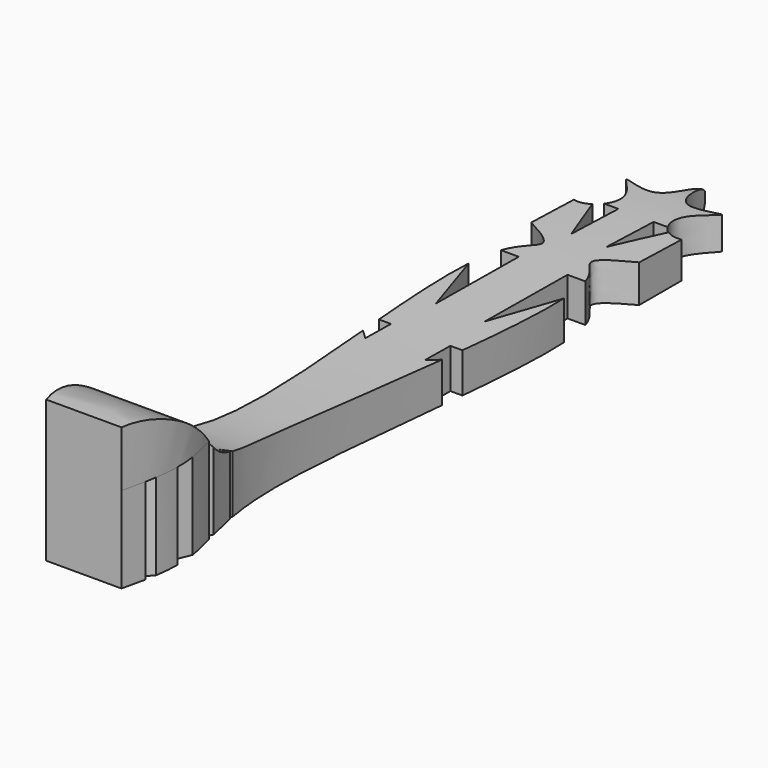
from build123d import *

# Parameters (mm, degrees)
F1_DEPTH = 19.05
F3_DEPTH = 38.101
F5_DEPTH = 1828.8
F7_DEPTH = 30.4317795835


with BuildPart() as f1:
    # F0 (on Right) → F1 (new body, symmetric)
    with BuildSketch(Plane.YZ):
        Polygon((178.5913199186, -10.4307794835), (-121.4086800814, 33.5692205165), (-121.4086800814, -30.4307794835), (178.5913199186, -30.4307794835), align=None)
    extrude(amount=F1_DEPTH, both=True)

    # F2 (on face) → F3 (cut, through all)
    with BuildSketch(Plane.YZ.offset(19.05)):
        with BuildLine():
            Line((178.5913199186, -30.4307794835), (151.3292193413, -30.4307794835))
            add(Edge.make_bspline(
                [(-121.4086800814, 19.6494460106), (-128.8300884765, 19.0267810032), (-141.2069322009, 11.9924256564), (-156.2329333584, 23.8123836314), (-140.0198941638, 146.4879396447), (350.3155047747, 92.1479607158), (129.148871018, -114.6061696375), (147.3654680434, -42.0453164757), (151.3292193413, -30.4307794835)],
                knots=[0.3755945122, 0.3755945122, 0.3755945122, 0.3755945122, 0.4284147605, 0.4689040331, 0.574577395, 0.7912050142, 0.9245243763, 1, 1, 1, 1], degree=3))
            Line((-121.4086800814, 19.6494460106), (-121.4086800814, 33.5692205165))
            Line((-121.4086800814, 33.5692205165), (178.5913199186, -10.4307794835))
            Line((178.5913199186, -10.4307794835), (178.5913199186, -30.4307794835))
        make_face()
        with BuildLine():
            add(Edge.make_bspline(
                [(151.3292193413, -30.4307794835), (153.2220690919, -24.8843736175), (160.64754968, -12.1928460221), (-67.6128940399, -21.9216893591), (-81.6540406852, -1.0579173524), (-96.8134756508, 13.8986638693), (-113.1806687792, 20.339785963), (-121.4086800814, 19.6494460106)],
                knots=[0, 0, 0, 0, 0.0360426285, 0.2066518864, 0.2659077685, 0.3170334444, 0.3755945122, 0.3755945122, 0.3755945122, 0.3755945122], degree=3))
            Line((151.3292193413, -30.4307794835), (178.5913199186, -30.4307794835))
            Line((178.5913199186, -30.4307794835), (178.5913199186, -10.4307794835))
            Line((178.5913199186, -10.4307794835), (-121.4086800814, 33.5692205165))
            Line((-121.4086800814, 33.5692205165), (-121.4086800814, 19.6494460106))
        make_face()
    extrude(amount=-F3_DEPTH, mode=Mode.SUBTRACT)

    # F4 (on Top) → F5 (cut, symmetric)
    with BuildSketch(Plane.XY):
        with BuildLine():
            add(Edge.make_bspline(
                [(12.4821066856, -124.74809587), (14.8633212575, -115.1394166797), (20.2356663085, -93.4609111828), (-0.8756140755, -56.0853990425), (26.6384219853, 82.1301651372), (3.1433208526, 91.8284494628), (16.8151619194, 98.7507867317), (24.3913829327, 102.5868430734)],
                knots=[0, 0, 0, 0, 0.1699878793, 0.3835162284, 0.7508443052, 0.8619296891, 1, 1, 1, 1], degree=3))
            Line((12.4821066856, -124.74809587), (0, -124.74809587))
            Line((0, -124.74809587), (43.3733165264, -140.8880054951))
            Line((43.3733165264, -140.8880054951), (74.8189985752, 175.46620965))
            Line((74.8189985752, 175.46620965), (-70.7527399063, 175.46620965))
            Line((-70.7527399063, 175.46620965), (-70.7527399063, -122.454315424))
            Line((-70.7527399063, -122.454315424), (-18.7047421932, -143.0566608906))
            Line((-18.7047421932, -143.0566608906), (-12.4821066856, -124.74809587))
            add(Edge.make_bspline(
                [(-12.4821066856, -124.74809587), (-14.8633212575, -115.1394166797), (-20.2356663085, -93.4609111828), (0.8756140755, -56.0853990425), (-26.6384219853, 82.1301651372), (-3.1433208526, 91.8284494628), (-16.8151619194, 98.7507867317), (-24.3913829327, 102.5868430734)],
                knots=[0, 0, 0, 0, 0.1699878793, 0.3835162284, 0.7508443052, 0.8619296891, 1, 1, 1, 1], degree=3))
            add(Edge.make_bspline(
                [(-24.3913829327, 102.5868430734), (-37.1198662092, 99.8323444151), (-62.1212241492, 94.4219427639), (-37.0471217752, 132.5325202436), (-16.9894556094, 112.3771299598), (-5.1584713459, 129.3074572708), (-22.7724406539, 142.8175921293), (-2.991625484, 132.9240861719), (-1.0779505714, 145.6183171696), (0, 152.7691185474)],
                knots=[0, 0, 0, 0, 0.1795188335, 0.3526119075, 0.5076586312, 0.6301526095, 0.7497035252, 0.8590046031, 1, 1, 1, 1], degree=3))
            add(Edge.make_bspline(
                [(24.3913829327, 102.5868430734), (37.1198662092, 99.8323444151), (62.1212241492, 94.4219427639), (37.0471217752, 132.5325202436), (16.9894556094, 112.3771299598), (5.1584713459, 129.3074572708), (22.7724406539, 142.8175921293), (2.991625484, 132.9240861719), (1.0779505714, 145.6183171696), (0, 152.7691185474)],
                knots=[0, 0, 0, 0, 0.1795188335, 0.3526119075, 0.5076586312, 0.6301526095, 0.7497035252, 0.8590046031, 1, 1, 1, 1], degree=3))
        make_face()
    extrude(amount=F5_DEPTH, both=True, mode=Mode.SUBTRACT)

    # F6 (on Top) → F7 (cut, through all)
    with BuildSketch(Plane.XY):
        Polygon((20.9709405899, -113.1029129028), (12.3674869537, -127.890124917), (41.6730344296, -110.6831729412), (60.4412499099, -51.2503213111), (31.9941341877, -33.7896943092), (8.0657601357, -72.7741606534), (24.1972506046, -57.7180981636), (9.4100534916, -87.8302231431), (24.7349739075, -72.5052952766), (12.0986402035, -103.1551510096), (30.6498408318, -93.2073891163), (12.3674869537, -113.1029129028), align=None)
        Polygon((8.6034536362, 44.7169244289), (20.7020938396, 81.2816694379), (8.6034536362, 81.2816694379), align=None)
        Polygon((-6.2217116356, 101.4643460512), (-6.2217116356, 122.242435813), (-14.4416242838, 122.242435813), align=None)
        Polygon((10.485470295, 15.9490853548), (22.5841104984, 27.241140604), (10.485470295, 27.241140604), align=None)
        Polygon((-24.1972506046, -57.7180981636), (-8.0657601357, -72.7741606534), (-31.9941341877, -33.7896943092), (-60.4412499099, -51.2503213111), (-41.6730344296, -110.6831729412), (-12.3674869537, -127.890124917), (-20.9709405899, -113.1029129028), (-12.3674869537, -113.1029129028), (-30.6498408318, -93.2073891163), (-12.0986402035, -103.1551510096), (-24.7349739075, -72.5052952766), (-9.4100534916, -87.8302231431), align=None)
        Polygon((-10.485470295, 15.9490853548), (-10.485470295, 27.241140604), (-22.5841104984, 27.241140604), align=None)
        Polygon((6.2217116356, 101.4643460512), (14.4416242838, 122.242435813), (6.2217116356, 122.242435813), align=None)
        Polygon((-8.6034536362, 44.7169244289), (-8.6034536362, 81.2816694379), (-20.7020938396, 81.2816694379), align=None)
    extrude(amount=-F7_DEPTH, mode=Mode.SUBTRACT)


solid = f1.part
